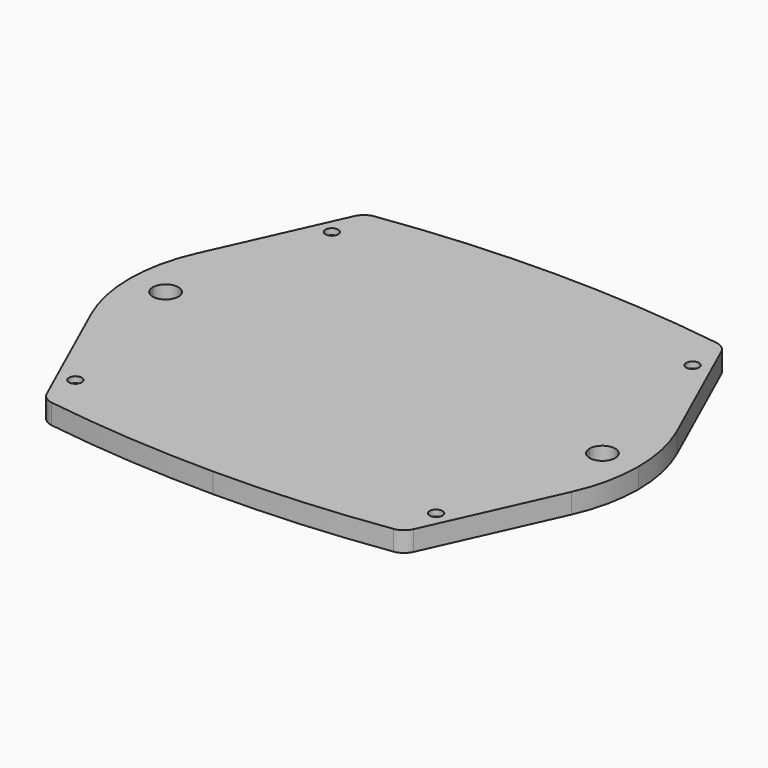
from build123d import *

# Parameters (mm, degrees)
PAD_DEPTH       = 5
FILLET_R        = 4
POCKET_DEPTH    = 2
SKETCH011_R     = 1.6
POCKET001_DEPTH = 5
SKETCH012_R     = 3
POCKET002_DEPTH = 3.5


with BuildPart() as pocket002:
    # Sketch010 → Pad (new body)
    with BuildSketch(Plane.XY):
        with BuildLine():
            Line((44.86111, -50), (59.975919, -16.416677))
            ThreePointArc((59.975919, -16.416677), (62.609058, -8.395333), (63.5, 0))
            Line((57.7, 0), (63.5, 0))
            ThreePointArc((51.3, 0), (54.5, -3.2), (57.7, 0))
            Line((0, 0), (51.3, 0))
            Line((0, -53.373162), (0, 0))
            ThreePointArc((0, -53.373162), (22.493874, -52.528683), (44.86111, -50))
        make_face()
    extrude(amount=-PAD_DEPTH)

    # Fillet
    fillet_edges = [pocket002.edges().sort_by_distance(p)[0] for p in [
        (44.86111, -50, -2.5),
    ]]
    fillet(fillet_edges, radius=FILLET_R)

    # Sketch (on Face5 of Fillet) → Pocket (cut)
    with BuildSketch(Plane(origin=(0, 0, -5), x_dir=(1, 0, 0), z_dir=(0, 0, -1))):
        with BuildLine():
            ThreePointArc((42.691795, 48.319977), (21.400417, 50.608892), (0, 51.373162))
            Line((0, 0), (0, 51.373162))
            Line((49.3, 0), (0, 0))
            ThreePointArc((57.658949, 4.130502), (52.196365, 4.661895), (49.3, 0))
            ThreePointArc((57.658949, 4.130502), (59.892731, 3.998098), (60.851148, 6.020164))
            ThreePointArc((60.851148, 6.020164), (59.670721, 11.322874), (57.782667, 16.416731))
            Line((57.782667, 16.416731), (49.614632, 34.565141))
            ThreePointArc((49.614632, 34.565141), (48.503106, 35.613174), (46.975994, 35.570785))
            ThreePointArc((43.16421, 44.48914), (40.540272, 38.093872), (46.975994, 35.570785))
            ThreePointArc((43.16421, 44.48914), (44.392147, 46.585115), (42.691795, 48.319977))
        make_face()
    extrude(amount=-POCKET_DEPTH, mode=Mode.SUBTRACT)

    # Sketch011 (on Face5 of Pocket) → Pocket001 (cut)
    with BuildSketch(Plane(origin=(0, 0, -5), x_dir=(1, 0, 0), z_dir=(0, 0, -1))):
        with Locations((45, 40)):
            Circle(SKETCH011_R)
    extrude(amount=-POCKET001_DEPTH, mode=Mode.SUBTRACT)

    # Sketch012 (on Face5 of Pocket001) → Pocket002 (cut)
    with BuildSketch(Plane(origin=(0, 0, -5), x_dir=(1, 0, 0), z_dir=(0, 0, -1))):
        with Locations((45, 40)):
            Circle(SKETCH012_R)
    extrude(amount=-POCKET002_DEPTH, mode=Mode.SUBTRACT)


with BuildPart() as fusion:
    # Part__Mirroring: instance of Pocket002
    add(pocket002.part.mirror(Plane(origin=(0, 0, 0), x_dir=(1, 0, 0), z_dir=(0, 1, 0))))

    # Fusion: union Pocket002
    add(pocket002.part)


with BuildPart() as fusion005:
    # Part__Mirroring001: instance of Fusion
    add(fusion.part.mirror(Plane(origin=(0, 0, 0), x_dir=(0, -1, 0), z_dir=(1, 0, 0))))

    # Fusion005: union Fusion
    add(fusion.part)


solid = fusion005.part
